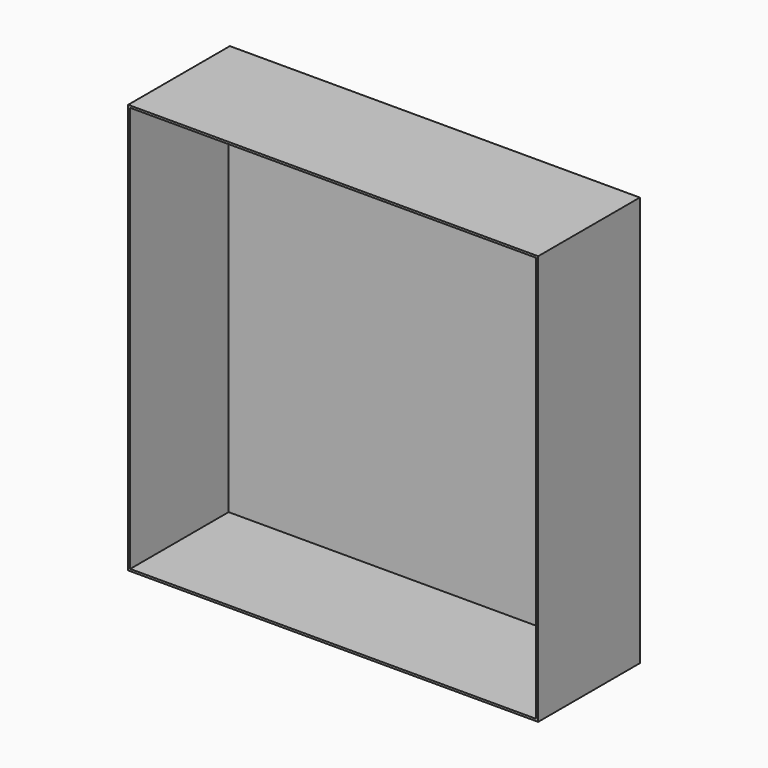
from build123d import *

# Parameters (mm, degrees)
F0_W     = 1000
F0_H     = 1000
F1_DEPTH = 10
F2_W     = 990
F2_H     = 5
F3_DEPTH = 300


with BuildPart() as f1:
    # F0 (on Front) → F1 (new body)
    with BuildSketch(Plane.XZ):
        Rectangle(F0_W, F0_H)
    extrude(amount=F1_DEPTH)

    # F2 (on face) → F3 (join)
    with BuildSketch(Plane.XZ.offset(10)):
        Polygon((-495, 500), (-500, 500), (-500, -500), (-495, -500), (-495, -495), (-495, 495), align=None)
        Polygon((500, 500), (-495, 500), (-495, 495), (495, 495), (500, 495), align=None)
        with Locations((0, -497.5)):
            Rectangle(F2_W, F2_H)
        Polygon((500, 495), (495, 495), (495, -495), (495, -500), (500, -500), align=None)
    extrude(amount=F3_DEPTH)


solid = f1.part
